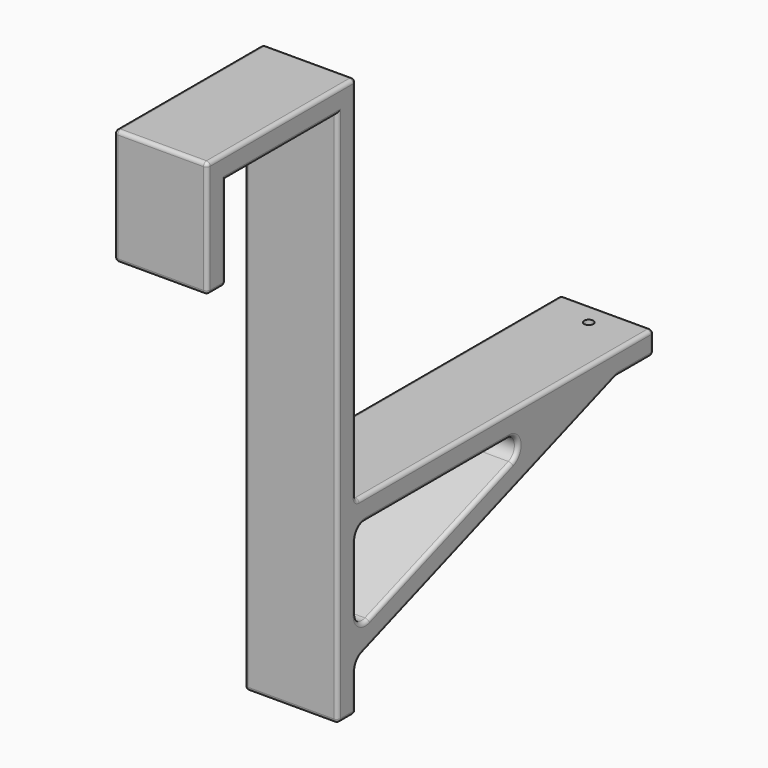
from build123d import *

# Parameters (mm, degrees)
F0_W     = 19.05
F0_H     = 3.175
F1_DEPTH = 12.7
F2_R     = 1.5875
F3_R     = 0.635
F4_DEPTH = 25.4
F5_SIZE  = 0.508
F6_R     = 0.508


with BuildPart() as f1:
    # F0 (on Right) → F1 (new body)
    with BuildSketch(Plane.YZ):
        Polygon((-26.4143199086, 49.6270560861), (-29.5893199086, 49.6270560861), (-29.5893199086, 33.7520560861), (-26.4143199086, 33.7520560861), (-26.4143199086, 46.4520560861), align=None)
        with Locations((-16.8893199086, 48.0395560861)):
            Rectangle(F0_W, F0_H)
        Polygon((-4.1893199086, 49.6270560861), (-7.3643199086, 49.6270560861), (-7.3643199086, 46.4520560861), (-7.3643199086, -26.7742185068), (-4.1893199086, -26.7742185068), (-4.1893199086, -20.4242185068), (-4.1893199086, -17.0479439139), (-4.1893199086, -4.3479439139), (-4.1893199086, -1.1729439139), align=None)
        Polygon((46.6106800914, -1.1729439139), (-4.1893199086, -1.1729439139), (-4.1893199086, -4.3479439139), (30.9254696988, -4.3479439139), (40.2606800914, -4.3479439139), (46.6106800914, -4.3479439139), align=None)
        Polygon((-4.1893199086, -17.0479439139), (-4.1893199086, -20.4242185068), (40.2606800914, -4.3479439139), (30.9254696988, -4.3479439139), align=None)
    extrude(amount=F1_DEPTH)

    # F2
    f2_edges = [f1.edges().sort_by_distance(p)[0] for p in [
        (6.35, -4.18932, -4.347944),
        (6.35, 30.92547, -4.347944),
        (6.35, -4.18932, -17.047944),
        (6.35, -4.18932, -20.424219),
        (6.35, 40.26068, -4.347944),
    ]]
    fillet(f2_edges, radius=F2_R)

    # F3 (on face) → F4 (cut)
    with BuildSketch(Plane.XY.offset(-1.1729439139)):
        with Locations((6.35, 43.4356800914)):
            Circle(F3_R)
    extrude(amount=-F4_DEPTH, mode=Mode.SUBTRACT)

    # F5
    f5_edges = [f1.edges().sort_by_distance(p)[0] for p in [
        (5.715, 43.43568, -4.347944),
    ]]
    chamfer(f5_edges, length=F5_SIZE)

    # F6
    f6_edges = [f1.edges().sort_by_distance(p)[0] for p in [
        (12.7, -29.58932, 41.689556),
        (12.7, -16.88932, 49.627056),
        (12.7, -4.18932, 24.227056),
        (12.7, 21.21068, -1.172944),
        (12.7, 46.61068, -2.760444),
        (12.7, -4.18932, -24.156211),
        (12.7, -3.901298, -20.62633),
        (12.7, -5.77682, -26.774219),
        (12.7, 18.428633, -12.243961),
        (12.7, -7.36432, 9.838919),
        (12.7, 40.264858, -4.371782),
        (12.7, -16.88932, 46.452056),
        (12.7, 43.574808, -4.347944),
        (12.7, -26.41432, 40.102056),
        (12.7, -28.00182, 33.752056),
        (12.7, -4.18932, -10.360549),
        (12.7, -3.513693, -16.085132),
        (12.7, -3.724352, -4.812912),
        (12.7, 10.173273, -11.853411),
        (12.7, 9.633348, -4.347944),
        (12.7, 23.432177, -5.661366),
        (0, -4.18932, -24.156211),
        (0, -3.901298, -20.62633),
        (0, -5.77682, -26.774219),
        (0, 18.428633, -12.243961),
        (0, -7.36432, 9.838919),
        (0, 40.264858, -4.371782),
        (0, -16.88932, 46.452056),
        (0, 43.574808, -4.347944),
        (0, -26.41432, 40.102056),
        (0, 46.61068, -2.760444),
        (0, -28.00182, 33.752056),
        (0, 21.21068, -1.172944),
        (0, -29.58932, 41.689556),
        (0, -4.18932, 24.227056),
        (0, -16.88932, 49.627056),
        (0, -4.18932, -10.360549),
        (0, -3.513693, -16.085132),
        (0, -3.724352, -4.812912),
        (0, 10.173273, -11.853411),
        (0, 9.633348, -4.347944),
        (0, 23.432177, -5.661366),
        (6.35, -29.58932, 49.627056),
        (6.35, -29.58932, 33.752056),
        (6.35, -4.18932, 49.627056),
        (6.35, 46.61068, -1.172944),
        (6.35, 46.61068, -4.347944),
        (6.35, -4.18932, -1.172944),
        (6.35, -7.36432, -26.774219),
        (6.35, -4.18932, -26.774219),
        (6.35, -26.41432, 33.752056),
    ]]
    fillet(f6_edges, radius=F6_R)


solid = f1.part
